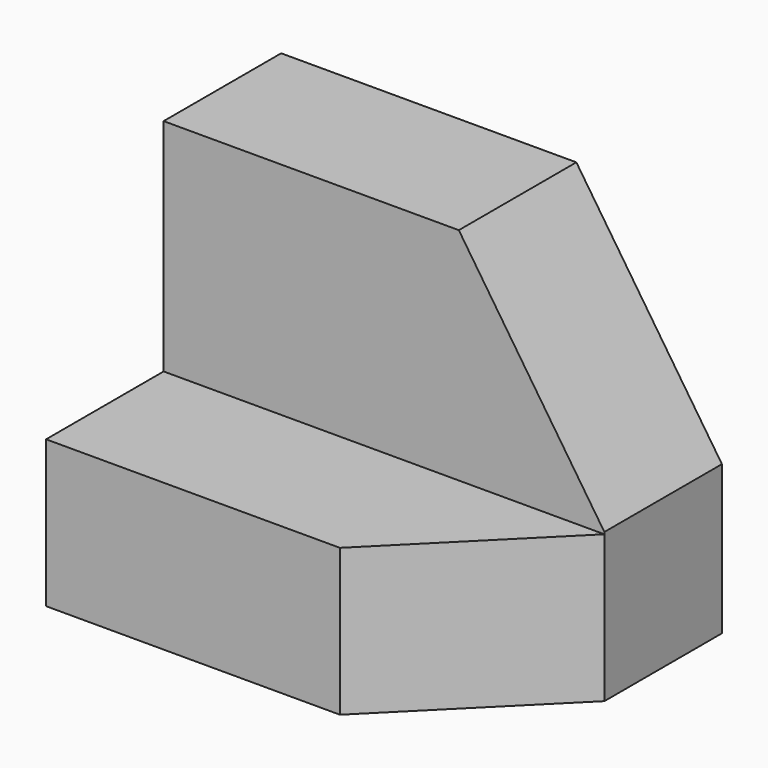
from build123d import *

# Parameters (mm, degrees)
F1_DEPTH = 38.1
F3_DEPTH = 12.7
F5_DEPTH = 25.4


with BuildPart() as f1:
    # F0 (on Right) → F1 (new body)
    with BuildSketch(Plane.YZ):
        Polygon((12.7, 12.7), (0, 12.7), (0, 0), (25.4, 0), (25.4, 31.75), (12.7, 31.75), align=None)
    extrude(amount=-F1_DEPTH)

    # F2 (on face) → F3 (cut)
    with BuildSketch(Plane.XY.offset(12.7)):
        Polygon((0, 0), (0, 12.7), (-12.7, 0), align=None)
    extrude(amount=-F3_DEPTH, mode=Mode.SUBTRACT)

    # F4 (on Front) → F5 (cut)
    with BuildSketch(Plane.XZ):
        Polygon((-12.7, 31.926129), (0, 12.876129), (0, 31.926129), align=None)
    extrude(amount=-F5_DEPTH, mode=Mode.SUBTRACT)


solid = f1.part
